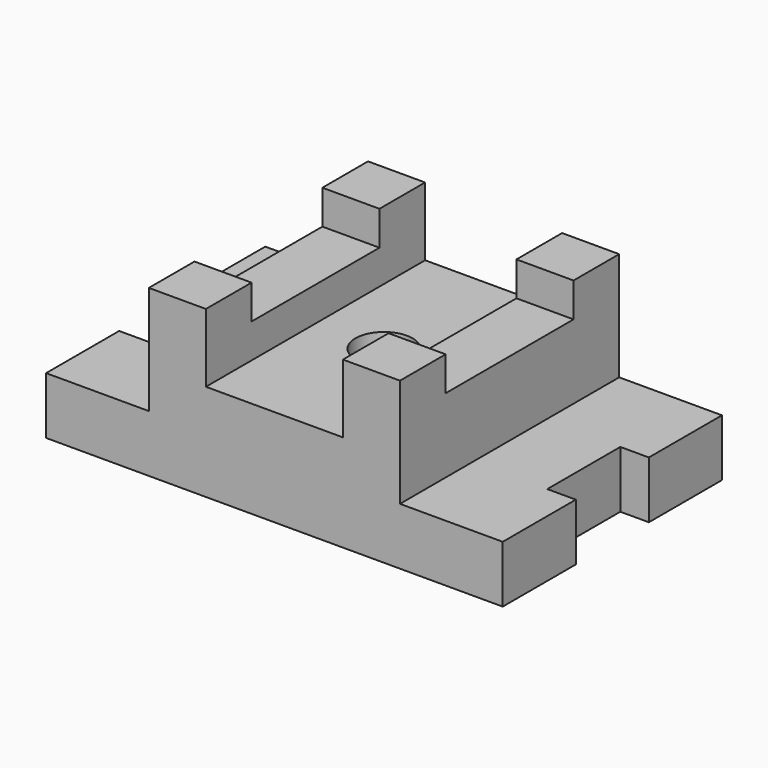
from build123d import *

# Parameters (mm, degrees)
F1_DEPTH = 31.75
F0_R     = 15.875
F2_DEPTH = 53.975
F0_W     = 31.75
F0_H     = 88.9224840942
F3_DEPTH = 73.025
F0_H_2   = 31.7387579529
F4_DEPTH = 92.075


with BuildPart() as f1:
    # F0 (on Top) → F1 (new body)
    with BuildSketch(Plane.XY):
        Polygon((-127, -76.2), (-69.85, -76.2), (-69.85, -44.4612420471), (-69.85, 44.4612420471), (-69.85, 76.2), (-127, 76.2), (-127, 25.4), (-111.125, 25.4), (-111.125, -25.4), (-127, -25.4), align=None)
    extrude(amount=F1_DEPTH)



with BuildPart() as f1b:
    # F0 (on Top) → F1, piece 2 (new body)
    with BuildSketch(Plane.XY):
        Polygon((69.85, -44.4612420471), (69.85, -76.2), (127, -76.2), (127, -25.4), (111.125, -25.4), (111.125, 25.4), (127, 25.4), (127, 76.2), (69.85, 76.2), (69.85, 44.4612420471), align=None)
    extrude(amount=F1_DEPTH)


with BuildPart() as f2:
    # F0 (on Top) → F2 (new body)
    with BuildSketch(Plane.XY):
        Polygon((-38.1, -76.2), (0, -76.2), (38.1, -76.2), (38.1, -44.4612420471), (38.1, 44.4612420471), (38.1, 76.2), (0, 76.2), (-38.1, 76.2), (-38.1, 44.4612420471), (-38.1, -44.4612420471), align=None)
        Circle(F0_R, mode=Mode.SUBTRACT)
    extrude(amount=F2_DEPTH)


with BuildPart() as f1_1:
    add(f1.part)

    add(f1b.part)  # F3 merges F1b

    add(f2.part)  # F3 merges F2
    # F0 (on Top) → F3 (join)
    with BuildSketch(Plane.XY):
        with Locations((-53.975, 0)):
            Rectangle(F0_W, F0_H)
        with Locations((53.975, 0)):
            Rectangle(F0_W, F0_H)
    extrude(amount=F3_DEPTH)

    # F0 (on Top) → F4 (join)
    with BuildSketch(Plane.XY):
        with Locations((-53.975, 60.3306210236)):
            Rectangle(F0_W, F0_H_2)
        with Locations((-53.975, -60.3306210236)):
            Rectangle(F0_W, F0_H_2)
        with Locations((53.975, -60.3306210236)):
            Rectangle(F0_W, F0_H_2)
        with Locations((53.975, 60.3306210236)):
            Rectangle(F0_W, F0_H_2)
    extrude(amount=F4_DEPTH)


solid = f1_1.part
